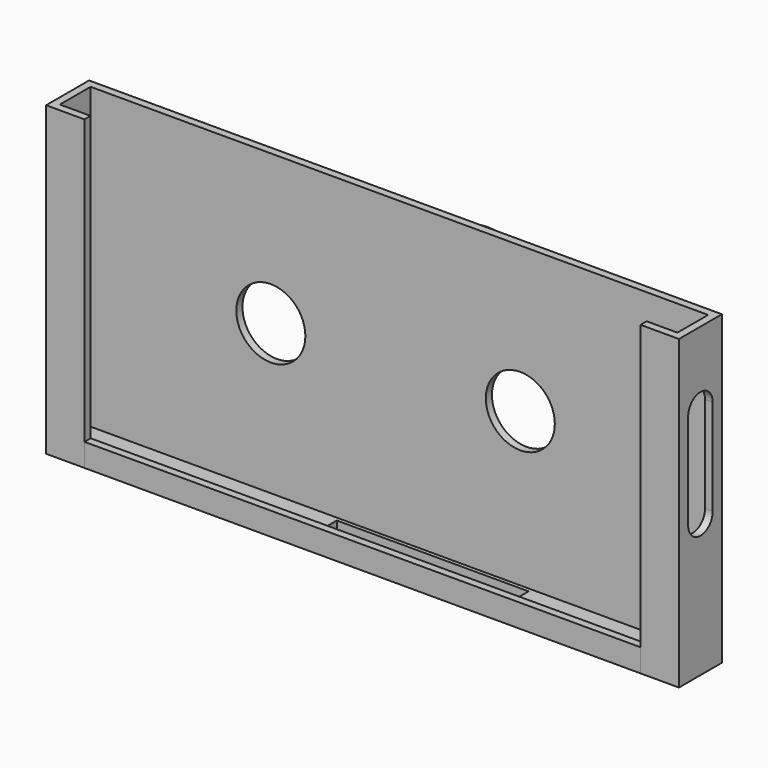
from build123d import *

# Parameters (mm, degrees)
F0_W      = 161
F0_H      = 2
F0_W_2    = 2
F0_H_2    = 10
F0_W_3    = 8
F1_DEPTH  = 80
F2_DEPTH  = 2
F0_W_4    = 145
F3_DEPTH  = 6
F4_W      = 8
F4_H      = 25
F5_DEPTH  = 2
F6_W      = 8
F6_H      = 25
F7_DEPTH  = 2
F8_R      = 9
F9_DEPTH  = 12.001
F11_W     = 50
F11_H     = 9
F12_DEPTH = 2
F10_W     = 10
F10_H     = 10
F13_DEPTH = 10
F18_W     = 28.0327871442
F18_H     = 26.7418082803
F19_DEPTH = 41


with BuildPart() as f1:
    # F0 (on Top) → F1 (new body)
    with BuildSketch(Plane.XY):
        with Locations((80.5, 11)):
            Rectangle(F0_W, F0_H)
        with Locations((162, 11)):
            Rectangle(F0_W_2, F0_H)
        with Locations((162, 5)):
            Rectangle(F0_W_2, F0_H_2)
        with Locations((162, -1)):
            Rectangle(F0_W_2, F0_H)
        with Locations((157, -1)):
            Rectangle(F0_W_3, F0_H)
        with Locations((-1, 11)):
            Rectangle(F0_W_2, F0_H)
        with Locations((-1, 5)):
            Rectangle(F0_W_2, F0_H_2)
        with Locations((-1, -1)):
            Rectangle(F0_W_2, F0_H)
        with Locations((4, -1)):
            Rectangle(F0_W_3, F0_H)
    extrude(amount=F1_DEPTH)

    # F4 (on face) → F5 (cut, through all)
    with BuildSketch(Plane(origin=(-2, 0, 0), x_dir=(0, -1, 0), z_dir=(-1, 0, 0))):
        with BuildLine():
            ThreePointArc((-1, 48), (-5, 52), (-9, 48))
            Line((-9, 48), (-1, 48))
        make_face()
        with Locations((-5, 35.5)):
            Rectangle(F4_W, F4_H)
        with BuildLine():
            Line((-1, 23), (-9, 23))
            ThreePointArc((-9, 23), (-5, 19), (-1, 23))
        make_face()
    extrude(amount=-F5_DEPTH, mode=Mode.SUBTRACT)

    # F6 (on face) → F7 (cut, through all)
    with BuildSketch(Plane.YZ.offset(163)):
        with BuildLine():
            ThreePointArc((9, 61), (5, 65), (1, 61))
            Line((1, 61), (9, 61))
        make_face()
        with Locations((5, 48.5)):
            Rectangle(F6_W, F6_H)
        with BuildLine():
            Line((9, 36), (1, 36))
            ThreePointArc((1, 36), (5, 32), (9, 36))
        make_face()
    extrude(amount=-F7_DEPTH, mode=Mode.SUBTRACT)

    # F8 (on Front) → F9 (cut, through all)
    with BuildSketch(Plane.XZ):
        with Locations((47, 41)):
            Circle(F8_R)
        with Locations((112.0353415608, 42)):
            Circle(F8_R)
    extrude(amount=-F9_DEPTH, mode=Mode.SUBTRACT)

    # F10 (on face) → F13 (join)
    with BuildSketch(Plane(origin=(0, 12, 0), x_dir=(-1, 0, 0), z_dir=(0, 1, 0))):
        with Locations((-80.5, 52)):
            Rectangle(F10_W, F10_H)
    extrude(amount=F13_DEPTH)

    # F16 (on line) → F17 (revolve)
    with BuildSketch(Plane(origin=(0, 0, 52), x_dir=(1, 0, 0), z_dir=(0, 0, -1))):
        with BuildLine():
            Line((80.6235447526, -44.4018882096), (80.6235447526, -19.8018882096))
            ThreePointArc((80.6235447526, -19.8018882096), (68.3235447526, -32.1018882096), (80.6235447526, -44.4018882096))
        make_face()
    revolve(axis=Axis((80.6235447526, 32.1018882096, 52), (0, 1, 0)))

    # F18 (on Top) → F19 (cut)
    with BuildSketch(Plane.XY):
        with Locations((81.3463069499, 32.6434457675)):
            Rectangle(F18_W, F18_H)
    extrude(amount=F19_DEPTH, mode=Mode.SUBTRACT)


with BuildPart() as f2:
    # F0 (on Top) → F2 (new body)
    with BuildSketch(Plane.XY):
        Polygon((0, 10), (0, 0), (8, 0), (153, 0), (161, 0), (161, 10), align=None)
    extrude(amount=F2_DEPTH)

    # F11 (on face) → F12 (cut, through all)
    with BuildSketch(Plane.XY):
        with Locations((90, 4.5)):
            Rectangle(F11_W, F11_H)
    extrude(amount=F12_DEPTH, mode=Mode.SUBTRACT)


with BuildPart() as f3:
    # F0 (on Top) → F3 (new body)
    with BuildSketch(Plane.XY):
        with Locations((80.5, -1)):
            Rectangle(F0_W_4, F0_H)
    extrude(amount=F3_DEPTH)


solid = Compound([f1.part, f2.part, f3.part])
